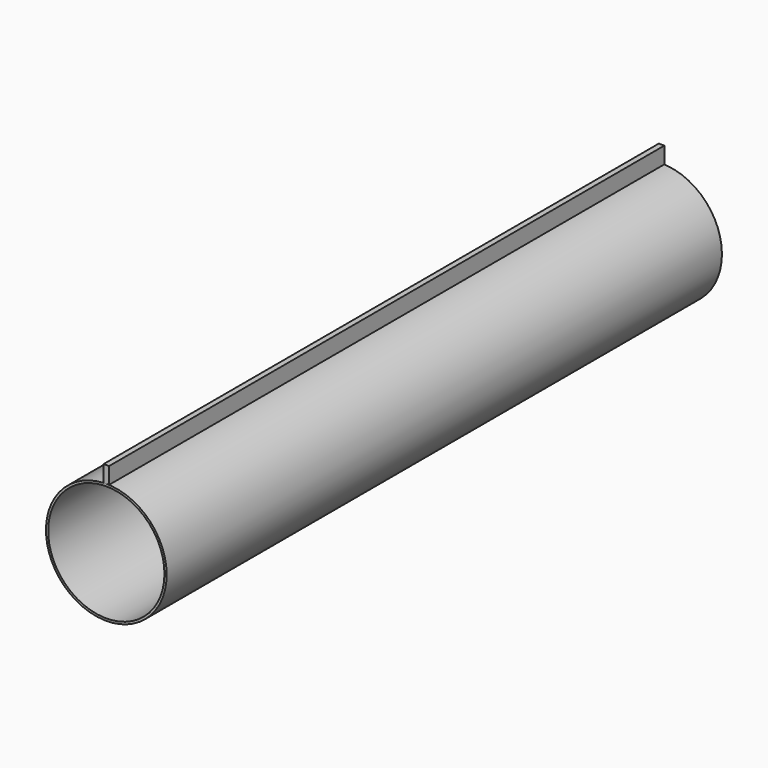
from build123d import *

# Parameters (mm, degrees)
F1_R          = 105.55
F2_DEPTH      = 630
F3_DEPTH      = 630
F3_DEPTH_BACK = 630


with BuildPart() as f2:
    # F1 (on Front) → F2 (new body, symmetric)
    with BuildSketch(Plane.XZ):
        with BuildLine():
            ThreePointArc((0, 109.55), (-77.463547879, -77.463547879), (109.55, 0))
            ThreePointArc((109.55, 0), (77.463547879, 77.463547879), (0, 109.55))
        make_face()
        Circle(F1_R, mode=Mode.SUBTRACT)
    extrude(amount=F2_DEPTH, both=True)


with BuildPart() as f3:
    # F1 (on Front) → F3 (new body, two sides)
    with BuildSketch(Plane.XZ) as f3_sk:
        Polygon((-5, 109.55), (0, 109.55), (5, 109.55), (5, 139.55), (-5, 139.55), align=None)
    extrude(amount=F3_DEPTH)
    extrude(f3_sk.sketch, amount=-F3_DEPTH_BACK)


solid = Compound([f2.part, f3.part])
